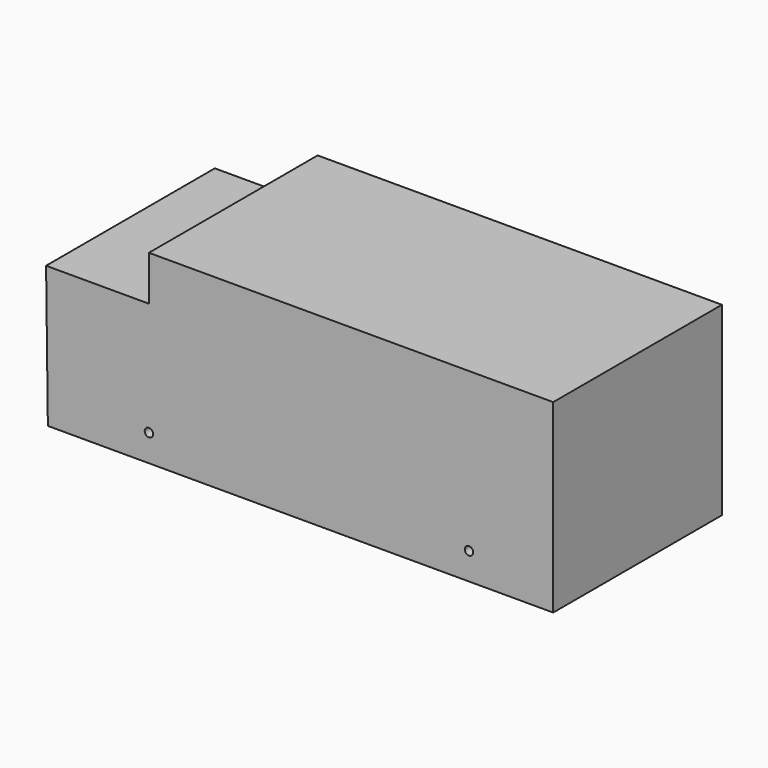
from build123d import *

# Parameters (mm, degrees)
F1_DEPTH = 25
F2_DEPTH = 37.6
F3_DEPTH = 25
F4_DEPTH = 25
F5_DEPTH = 25


with BuildPart() as f1:
    # F0 (on Front) → F1 (new body)
    with BuildSketch(Plane.XZ):
        Polygon((60, -27.5), (60, 27.5), (-60, 27.5), (-60, 14.1944857314), (-90.527780354, 14.1944857314), (-90, -27.5), (-60, -27.5), (35, -27.5), align=None)
        with BuildLine():
            ThreePointArc((-58.75, -19.5), (-59.1161165235, -20.3838834765), (-60, -20.75))
            ThreePointArc((-60, -20.75), (-60.8838834765, -18.6161165235), (-58.75, -19.5))
        make_face(mode=Mode.SUBTRACT)
        with BuildLine():
            ThreePointArc((36.25, -19.5), (35.8838834765, -20.3838834765), (35, -20.75))
            ThreePointArc((35, -20.75), (34.1161165235, -18.6161165235), (36.25, -19.5))
        make_face(mode=Mode.SUBTRACT)
    extrude(amount=F1_DEPTH)

    # F0 (on Front) → F2 (join)
    with BuildSketch(Plane.XZ):
        Polygon((60, -27.5), (60, 27.5), (-60, 27.5), (-60, 14.1944857314), (-90.527780354, 14.1944857314), (-90, -27.5), (-60, -27.5), (35, -27.5), align=None)
        with BuildLine():
            ThreePointArc((-58.75, -19.5), (-59.1161165235, -20.3838834765), (-60, -20.75))
            ThreePointArc((-60, -20.75), (-60.8838834765, -18.6161165235), (-58.75, -19.5))
        make_face(mode=Mode.SUBTRACT)
        with BuildLine():
            ThreePointArc((36.25, -19.5), (35.8838834765, -20.3838834765), (35, -20.75))
            ThreePointArc((35, -20.75), (34.1161165235, -18.6161165235), (36.25, -19.5))
        make_face(mode=Mode.SUBTRACT)
    extrude(amount=F2_DEPTH)

    # F0 (on Front) → F3 (join)
    with BuildSketch(Plane.XZ):
        Polygon((60, -27.5), (60, 27.5), (-60, 27.5), (-60, 14.1944857314), (-90.527780354, 14.1944857314), (-90, -27.5), (-60, -27.5), (35, -27.5), align=None)
        with BuildLine():
            ThreePointArc((-58.75, -19.5), (-59.1161165235, -20.3838834765), (-60, -20.75))
            ThreePointArc((-60, -20.75), (-60.8838834765, -18.6161165235), (-58.75, -19.5))
        make_face(mode=Mode.SUBTRACT)
        with BuildLine():
            ThreePointArc((36.25, -19.5), (35.8838834765, -20.3838834765), (35, -20.75))
            ThreePointArc((35, -20.75), (34.1161165235, -18.6161165235), (36.25, -19.5))
        make_face(mode=Mode.SUBTRACT)
    extrude(amount=F3_DEPTH)

    # F4 (add): a face of the model
    f4_faces = [f1.faces().sort_by_distance(p)[0] for p in [
        (-12.0583061009, -37.6, -1.0349945088),
    ]]
    extrude(f4_faces, amount=F4_DEPTH)

    # F0 (on Front) → F5 (join)
    with BuildSketch(Plane.XZ):
        Polygon((60, -27.5), (60, 27.5), (-60, 27.5), (-60, 14.1944857314), (-90.527780354, 14.1944857314), (-90, -27.5), (-60, -27.5), (35, -27.5), align=None)
        with BuildLine():
            ThreePointArc((-58.75, -19.5), (-59.1161165235, -20.3838834765), (-60, -20.75))
            ThreePointArc((-60, -20.75), (-60.8838834765, -18.6161165235), (-58.75, -19.5))
        make_face(mode=Mode.SUBTRACT)
        with BuildLine():
            ThreePointArc((36.25, -19.5), (35.8838834765, -20.3838834765), (35, -20.75))
            ThreePointArc((35, -20.75), (34.1161165235, -18.6161165235), (36.25, -19.5))
        make_face(mode=Mode.SUBTRACT)
    extrude(amount=F5_DEPTH)


solid = f1.part
